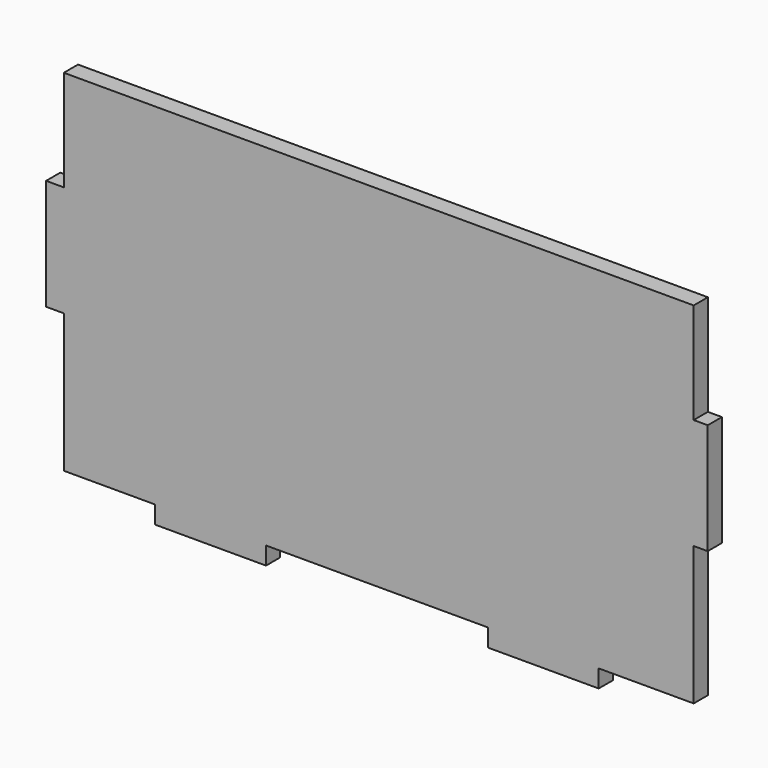
from build123d import *

# Parameters (mm, degrees)
F1_DEPTH = 4.064


with BuildPart() as f1:
    # F0 (on Front) → F1 (new body)
    with BuildSketch(Plane.XZ):
        Polygon((-104.230369, 34.021411), (-104.230369, 10.399411), (-83.317001, 10.399411), (-83.317001, 6.335411), (-57.917001, 6.335411), (-57.917001, 10.399411), (-51.567001, 10.399411), (-13.467001, 10.399411), (-13.044369, 10.399411), (-7.117001, 10.399411), (-7.117001, 6.335411), (18.282999, 6.335411), (18.282999, 10.399411), (40.041631, 10.399411), (40.041631, 34.021411), (40.041631, 42.149411), (43.260368, 42.149411), (43.260368, 67.549411), (40.041631, 67.549411), (40.041631, 86.599411), (40.041631, 90.663411), (18.282999, 90.663411), (-7.117001, 90.663411), (-57.917001, 90.663411), (-83.317001, 90.663411), (-104.230369, 90.663411), (-104.230369, 86.599411), (-104.230369, 67.549411), (-108.294369, 67.549411), (-108.294369, 64.219405), (-108.294369, 42.149411), (-104.230369, 42.149411), align=None)
        Polygon((-104.230369, 34.021411), (-104.230369, 10.399411), (-83.317001, 10.399411), (-83.317001, 6.335411), (-57.917001, 6.335411), (-57.917001, 10.399411), (-51.567001, 10.399411), (-13.467001, 10.399411), (-13.044369, 10.399411), (-7.117001, 10.399411), (-7.117001, 6.335411), (18.282999, 6.335411), (18.282999, 10.399411), (40.041631, 10.399411), (40.041631, 34.021411), (40.041631, 42.149411), (43.260368, 42.149411), (43.260368, 67.549411), (40.041631, 67.549411), (40.041631, 86.599411), (40.041631, 90.663411), (18.282999, 90.663411), (-7.117001, 90.663411), (-57.917001, 90.663411), (-83.317001, 90.663411), (-104.230369, 90.663411), (-104.230369, 86.599411), (-104.230369, 67.549411), (-108.294369, 67.549411), (-108.294369, 64.219405), (-108.294369, 42.149411), (-104.230369, 42.149411), align=None)
    extrude(amount=F1_DEPTH)


solid = f1.part
